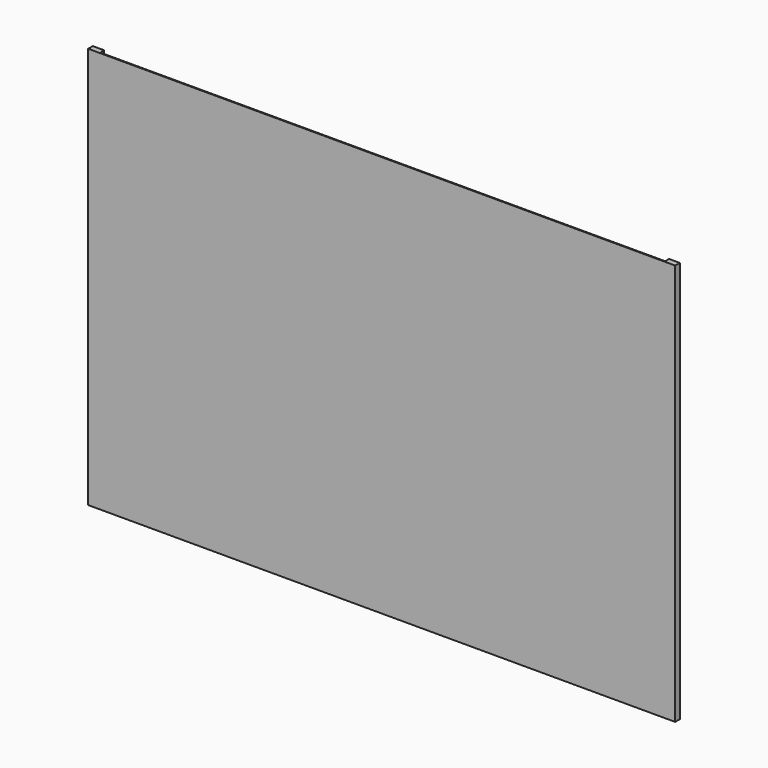
from build123d import *

# Parameters (mm, degrees)
F0_W     = 213.36
F0_H     = 146.05
F1_DEPTH = 1.04775
F3_W     = 205.350593
F3_H     = 143.51
F4_DEPTH = 1.778


with BuildPart() as f1:
    # F0 (on Front) → F1 (new body, symmetric)
    with BuildSketch(Plane.XZ):
        Rectangle(F0_W, F0_H)
    extrude(amount=F1_DEPTH, both=True)

    # F3 (on face) → F4 (cut)
    with BuildSketch(Plane(origin=(0, 1.04775, 0), x_dir=(-1, 0, 0), z_dir=(0, 1, 0))):
        with Locations((-0.117033, 1.977809)):
            Rectangle(F3_W, F3_H)
    extrude(amount=-F4_DEPTH, mode=Mode.SUBTRACT)


solid = f1.part
